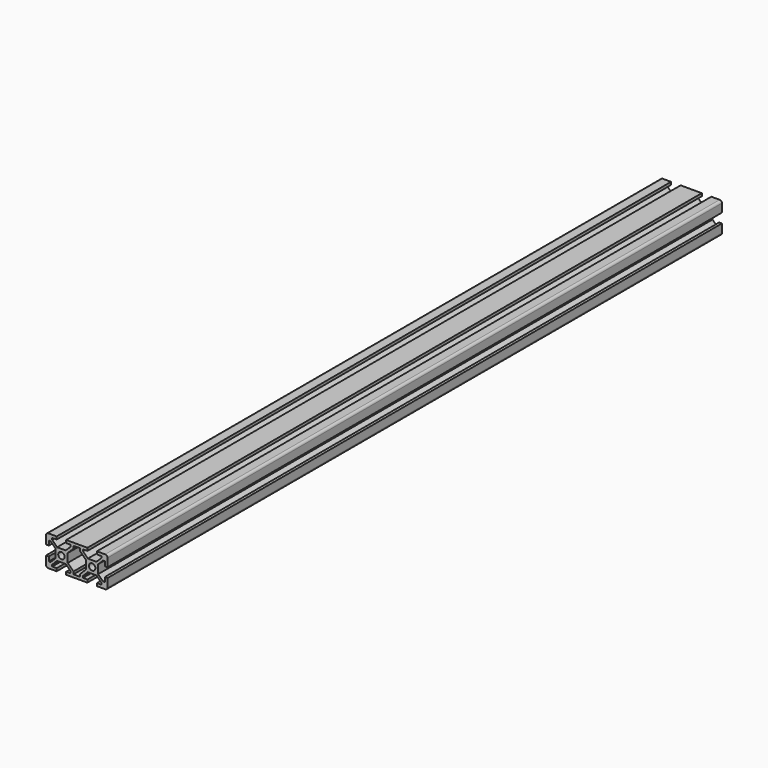
from build123d import *

# Parameters (mm, degrees)
SKETCH_R  = 2.1
PAD_DEPTH = 250
FILLET_R  = 1.5


with BuildPart() as part:
    # Sketch → Pad (new body, symmetric)
    with BuildSketch(Plane.XZ):
        Polygon((-10, 10), (-3.1, 10), (-3.1, 8.2), (-6, 8.2), (-6, 7.06066), (-2.83934, 3.9), (2.83934, 3.9), (6, 7.06066), (6, 8.2), (3.1, 8.2), (3.1, 10), (16.9, 10), (16.9, 8.2), (14, 8.2), (14, 7.06066), (17.16066, 3.9), (22.83934, 3.9), (26, 7.06066), (26, 8.2), (23.1, 8.2), (23.1, 10), (30, 10), (30, 3.1), (28.2, 3.1), (28.2, 6), (27.06066, 6), (23.9, 2.83934), (23.9, -2.83934), (27.06066, -6), (28.2, -6), (28.2, -3.1), (30, -3.1), (30, -10), (23.1, -10), (23.1, -8.2), (26, -8.2), (26, -7.06066), (22.83934, -3.9), (17.16066, -3.9), (14, -7.06066), (14, -8.2), (16.9, -8.2), (16.9, -10), (3.1, -10), (3.1, -8.2), (6, -8.2), (6, -7.06066), (2.83934, -3.9), (-2.83934, -3.9), (-6, -7.06066), (-6, -8.2), (-3.1, -8.2), (-3.1, -10), (-10, -10), (-10, -3.1), (-8.2, -3.1), (-8.2, -6), (-7.06066, -6), (-3.9, -2.83934), (-3.9, 2.83934), (-7.06066, 6), (-8.2, 6), (-8.2, 3.1), (-10, 3.1), align=None)
        Circle(SKETCH_R, mode=Mode.SUBTRACT)
        with Locations((20, 0)):
            Circle(SKETCH_R, mode=Mode.SUBTRACT)
        Polygon((7.8, -6.53934), (4.1, -2.83934), (4.1, 2.83934), (7.8, 6.53934), (7.8, 8.2), (12.2, 8.2), (12.2, 6.53934), (15.9, 2.83934), (15.9, -2.83934), (12.2, -6.53934), (12.2, -8.2), (7.8, -8.2), align=None, mode=Mode.SUBTRACT)
    extrude(amount=PAD_DEPTH, both=True)

    # Fillet
    fillet_edges = [part.edges().sort_by_distance(p)[0] for p in [
        (-10, 0, 10),
        (30, 0, 10),
        (30, 0, -10),
        (-10, 0, -10),
    ]]
    fillet(fillet_edges, radius=FILLET_R)


with BuildPart() as part_1:
    # Body placement: moved
    add(part.part.moved(Location((-30, 0, 0))))


solid = part_1.part
